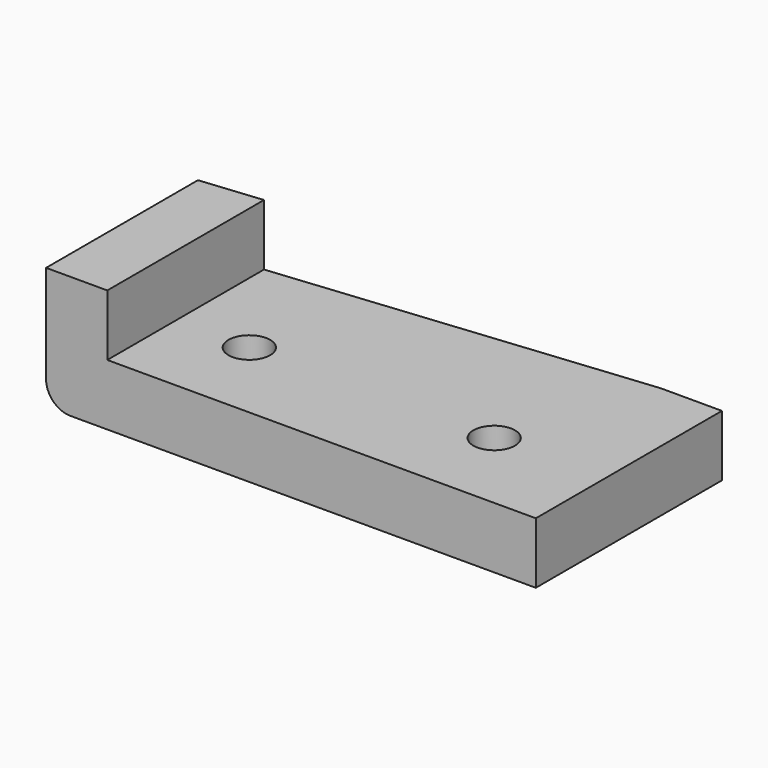
from build123d import *

# Parameters (mm, degrees)
F1_DEPTH       = 19
F3_DEPTH       = 25
F4_D           = 3.4
F4_CSINK_D     = 6.72
F4_CSINK_ANGLE = 90
F5_R           = 2


with BuildPart() as f1:
    # F0 (on Front) → F1 (new body)
    with BuildSketch(Plane.XZ):
        Polygon((-40, 0), (0, 0), (0, 5), (-35, 5), (-35, 10), (-40, 10), align=None)
    extrude(amount=F1_DEPTH)

    # F2 (on face) → F3 (cut)
    with BuildSketch(Plane(origin=(0, 0, 0), x_dir=(1, 0, 0), z_dir=(0, 0, -1))):
        Polygon((-5, 0), (-40, 3.5), (-40, 0), align=None)
    extrude(amount=-F3_DEPTH, mode=Mode.SUBTRACT)

    # F4 (through all)
    with Locations(Plane(origin=(0, 0, 0), x_dir=(1, 0, 0), z_dir=(0, 0, -1))):
        with Locations((-9, 12), (-29, 12)):
            CounterSinkHole(F4_D / 2, F4_CSINK_D / 2, counter_sink_angle=F4_CSINK_ANGLE)

    # F5
    f5_edges = [f1.edges().sort_by_distance(p)[0] for p in [
        (-40, -11.25, 0),
    ]]
    fillet(f5_edges, radius=F5_R)


solid = f1.part
